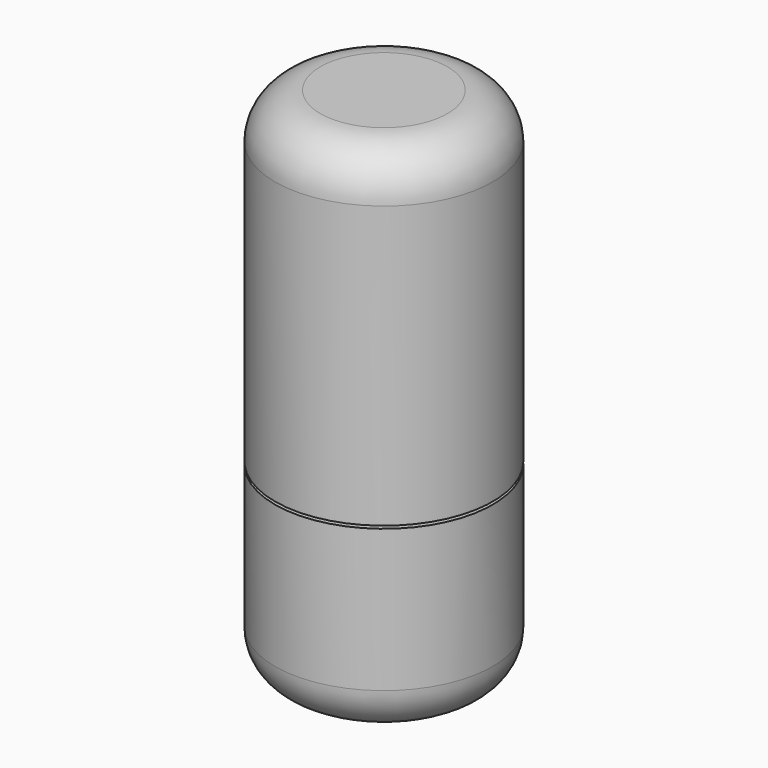
from build123d import *

# Parameters (mm, degrees)
F3_R   = 5
F3_2_R = 5


with BuildPart() as f1:
    # F0 (on Front) → F1 (revolve)
    with BuildSketch(Plane.XZ):
        with BuildLine():
            ThreePointArc((0, -10), (-7.071068, -7.071068), (-10, 0))
            Line((-10, 0), (-10, 34.7))
            Line((-10, 34.7), (-10.85, 34.7))
            Line((-10.85, 34.7), (-10.85, 9.7))
            Line((-10.85, 9.7), (-12, 9.7))
            Line((-12, 9.7), (-12, -11))
            Line((-12, -11), (-10.85, -11))
            Line((-10.85, -11), (0, -11))
            Line((0, -11), (0, -10))
        make_face()
    revolve(axis=Axis((0, 0, 12.35), (0, 0, 1)))

    # F3
    f3_edges = [f1.edges().sort_by_distance(p)[0] for p in [
        (12, 0, -11),
    ]]
    fillet(f3_edges, radius=F3_R)


with BuildPart() as f2:
    # F0 (on Front) → F2 (revolve)
    with BuildSketch(Plane.XZ):
        with BuildLine():
            ThreePointArc((-10, 35), (-7.071068, 42.071068), (0, 45))
            Line((0, 45), (0, 46))
            Line((0, 46), (-12, 46))
            Line((-12, 46), (-12, 10))
            Line((-12, 10), (-11.15, 10))
            Line((-11.15, 10), (-11.15, 35))
            Line((-11.15, 35), (-10, 35))
        make_face()
    revolve(axis=Axis((0, 0, 12.35), (0, 0, 1)))

    # F3#2
    f3_2_edges = [f2.edges().sort_by_distance(p)[0] for p in [
        (12, 0, 46),
    ]]
    fillet(f3_2_edges, radius=F3_2_R)


solid = Compound([f1.part, f2.part])
